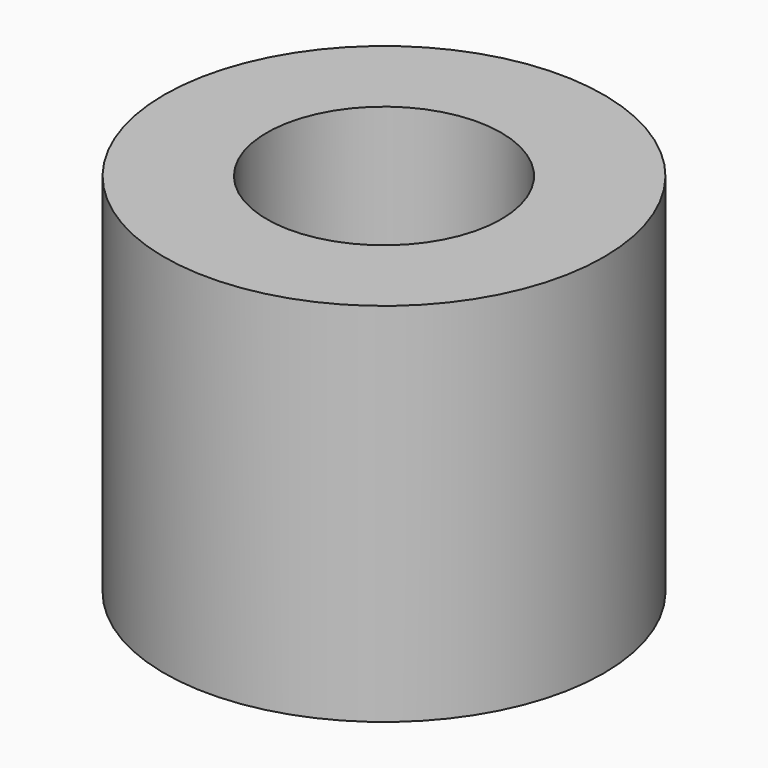
from build123d import *

# Parameters (mm, degrees)
SKETCH_R   = 6
SKETCH_R_2 = 3.2
PAD_DEPTH  = 10


with BuildPart() as part:
    # Sketch → Pad (new body)
    with BuildSketch(Plane.XY):
        Circle(SKETCH_R)
        Circle(SKETCH_R_2, mode=Mode.SUBTRACT)
    extrude(amount=PAD_DEPTH)


solid = part.part
